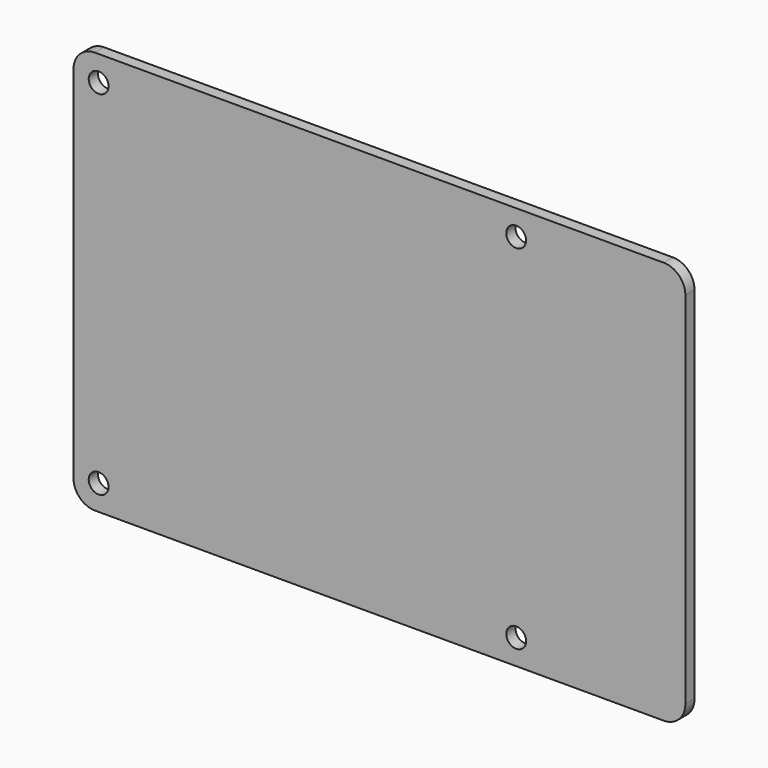
from build123d import *

# Parameters (mm, degrees)
F0_W     = 85
F0_H     = 56
F0_R     = 1.375
F1_DEPTH = 0.8
F2_R     = 3


with BuildPart() as f1:
    # F0 (on Front) → F1 (new body, symmetric)
    with BuildSketch(Plane.XZ):
        Rectangle(F0_W, F0_H)
        with Locations((-39, -24.5)):
            Circle(F0_R, mode=Mode.SUBTRACT)
        with Locations((19, -24.5)):
            Circle(F0_R, mode=Mode.SUBTRACT)
        with Locations((-39, 24.5)):
            Circle(F0_R, mode=Mode.SUBTRACT)
        with Locations((19, 24.5)):
            Circle(F0_R, mode=Mode.SUBTRACT)
    extrude(amount=F1_DEPTH, both=True)

    # F2
    f2_edges = [f1.edges().sort_by_distance(p)[0] for p in [
        (-42.5, 0, 28),
        (42.5, 0, 28),
        (-42.5, 0, -28),
        (42.5, 0, -28),
    ]]
    fillet(f2_edges, radius=F2_R)


solid = f1.part
